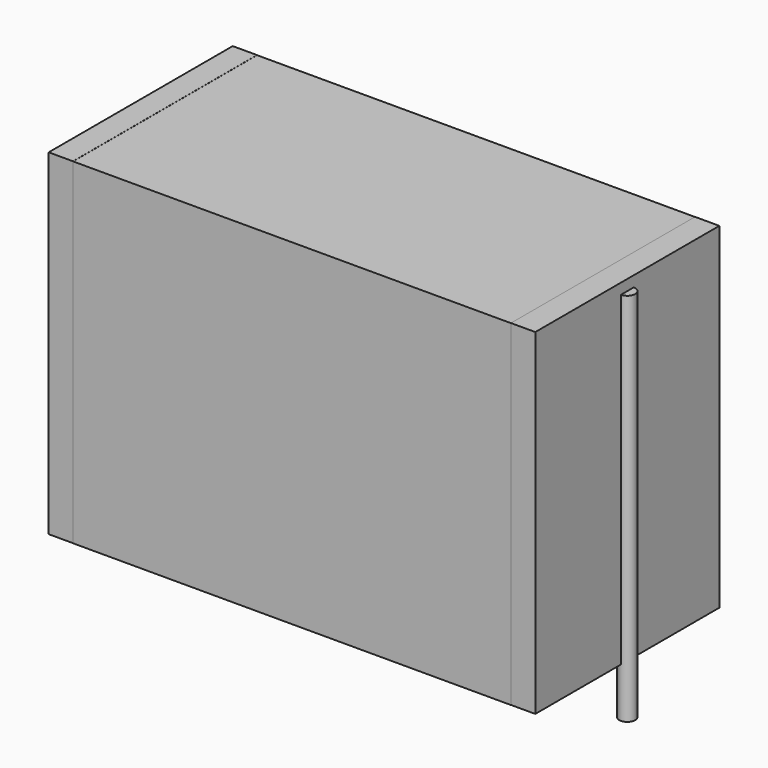
from build123d import *

# Parameters (mm, degrees)
SKETCH_W          = 24.75
SKETCH_H          = 13
PAD_DEPTH         = 19
SKETCH001_R       = 0.45
PAD001_DEPTH      = 18
PAD001_DEPTH_BACK = 3.2
SKETCH002_W       = 1.375
SKETCH002_H       = 13
PAD002_DEPTH      = 19


with BuildPart() as pad:
    # Sketch → Pad (new body)
    with BuildSketch(Plane.XY.offset(0.1)):
        with Locations((13.75, 0)):
            Rectangle(SKETCH_W, SKETCH_H)
    extrude(amount=PAD_DEPTH)


with BuildPart() as pad001:
    # Sketch001 → Pad001 (new body, two sides)
    with BuildSketch(Plane.XY.offset(0.5)) as pad001_sk:
        Circle(SKETCH001_R)
        with Locations((27.5, 0)):
            Circle(SKETCH001_R)
    extrude(amount=PAD001_DEPTH)
    extrude(pad001_sk.sketch, amount=-PAD001_DEPTH_BACK)


with BuildPart() as pad002:
    # Sketch002 → Pad002 (new body)
    with BuildSketch(Plane.XY.offset(0.105)):
        with Locations((0.6875, 0)):
            Rectangle(SKETCH002_W, SKETCH002_H)
        with Locations((26.8125, 0)):
            Rectangle(SKETCH002_W, SKETCH002_H)
    extrude(amount=PAD002_DEPTH)


solid = Compound([pad.part, pad001.part, pad002.part])
